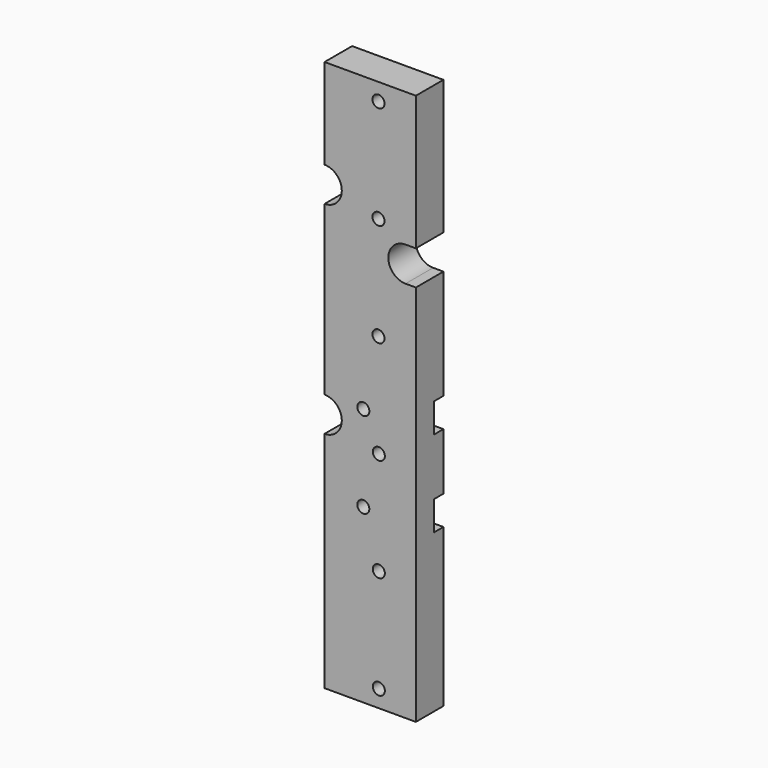
from build123d import *

# Parameters (mm, degrees)
F0_R     = 3.5
F1_DEPTH = 20
F0_W     = 53
F0_H     = 91.5
F0_H_2   = 17
F2_DEPTH = 13


with BuildPart() as f1:
    # F0 (on Front) → F1 (new body)
    with BuildSketch(Plane.XZ):
        with BuildLine():
            Line((-25.671420519, 79.08), (-25.671420519, 157.08))
            Line((-25.671420519, 157.08), (-78.671420519, 157.08))
            Line((-78.671420519, 157.08), (-78.671420519, 104.58))
            ThreePointArc((-78.671420519, 104.58), (-68.671420519, 94.58), (-78.671420519, 84.58))
            Line((-78.671420519, 84.58), (-78.671420519, -4.42))
            Line((-78.671420519, -4.42), (-25.671420519, -4.42))
            Line((-25.671420519, -4.42), (-25.671420519, 59.08))
            Line((-25.671420519, 59.08), (-31.671420519, 59.08))
            ThreePointArc((-31.671420519, 59.08), (-41.671420519, 69.08), (-31.671420519, 79.08))
            Line((-31.671420519, 79.08), (-25.671420519, 79.08))
        make_face()
        with Locations((-47.3698007467, 27.08)):
            Circle(F0_R, mode=Mode.SUBTRACT)
        with Locations((-47.3698007467, 87.08)):
            Circle(F0_R, mode=Mode.SUBTRACT)
        with Locations((-47.3698007467, 147.08)):
            Circle(F0_R, mode=Mode.SUBTRACT)
    extrude(amount=-F1_DEPTH)



with BuildPart() as f1b:
    # F0 (on Front) → F1, piece 2 (new body)
    with BuildSketch(Plane.XZ):
        with BuildLine():
            Line((-25.671420519, -54.42), (-25.671420519, -21.42))
            Line((-25.671420519, -21.42), (-68.7845605524, -21.42))
            ThreePointArc((-68.7845605524, -21.42), (-71.088545075, -29.4392024052), (-78.671420519, -32.92))
            Line((-78.671420519, -32.92), (-78.671420519, -54.42))
            Line((-78.671420519, -54.42), (-25.671420519, -54.42))
        make_face()
        with Locations((-47.171420519, -32.92)):
            Circle(F0_R, mode=Mode.SUBTRACT)
    extrude(amount=-F1_DEPTH)


with BuildPart() as f1c:
    # F0 (on Front) → F1, piece 3 (new body)
    with BuildSketch(Plane.XZ):
        with Locations((-52.171420519, -117.17)):
            Rectangle(F0_W, F0_H)
        with Locations((-47.171420519, -152.92)):
            Circle(F0_R, mode=Mode.SUBTRACT)
        with Locations((-47.171420519, -92.92)):
            Circle(F0_R, mode=Mode.SUBTRACT)
    extrude(amount=-F1_DEPTH)


with BuildPart() as f1_1:
    add(f1.part)

    add(f1b.part)  # F2 merges F1b

    add(f1c.part)  # F2 merges F1c
    # F0 (on Front) → F2 (join)
    with BuildSketch(Plane.XZ):
        with BuildLine():
            Line((-25.671420519, -21.42), (-25.671420519, -4.42))
            Line((-25.671420519, -4.42), (-78.671420519, -4.42))
            Line((-78.671420519, -4.42), (-78.671420519, -12.92))
            ThreePointArc((-78.671420519, -12.92), (-72.1522181138, -15.3371245559), (-68.7845605524, -21.42))
            Line((-68.7845605524, -21.42), (-25.671420519, -21.42))
        make_face()
        with Locations((-56.171420519, -12.92)):
            Circle(F0_R, mode=Mode.SUBTRACT)
        with Locations((-52.171420519, -62.92)):
            Rectangle(F0_W, F0_H_2)
        with Locations((-56.171420519, -62.92)):
            Circle(F0_R, mode=Mode.SUBTRACT)
    extrude(amount=-F2_DEPTH)


solid = f1_1.part
